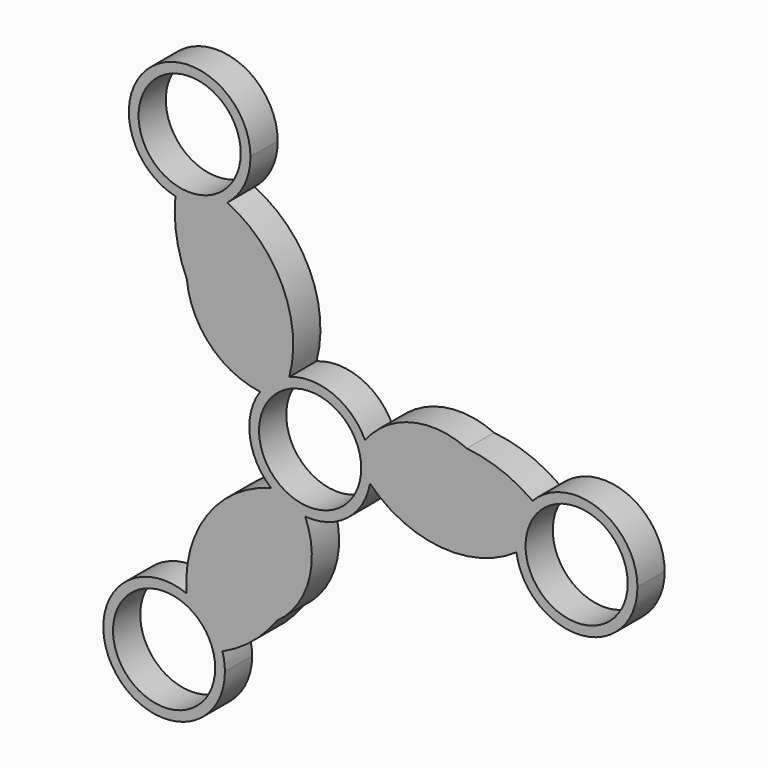
from build123d import *

# Parameters (mm, degrees)
F0_R     = 10.5
F1_DEPTH = 7


with BuildPart() as f1:
    # F0 (on Front) → F1 (new body)
    with BuildSketch(Plane.XZ):
        with BuildLine():
            ThreePointArc((11.295326, 5.354027), (12.195113, 2.743941), (12.5, 0))
            ThreePointArc((12.5, 0), (12.452429, -1.089502), (12.310078, -2.170712))
            ThreePointArc((12.310078, -2.170712), (26.882949, -8.961501), (42.415141, -4.81007))
            ThreePointArc((42.415141, -4.81007), (42.880339, 0.767824), (45.733166, 5.583494))
            ThreePointArc((45.733166, 5.583494), (39.308861, 9.012266), (32.218698, 10.672916))
            ThreePointArc((32.218698, 10.672916), (20.823945, 11.683957), (11.295326, 5.354027))
        make_face()
        with BuildLine():
            ThreePointArc((45.733166, 5.583494), (42.880339, 0.767824), (42.415141, -4.81007))
            ThreePointArc((42.415141, -4.81007), (55.678745, -15.501888), (67.28827, -3.033646))
            ThreePointArc((67.28827, -3.033646), (59.428378, 8.573223), (45.733166, 5.583494))
        make_face()
        with Locations((54.78827, -3.033646)):
            Circle(F0_R, mode=Mode.SUBTRACT)
        with BuildLine():
            ThreePointArc((-27.702031, 36.814337), (-22.105124, 36.751551), (-17.041928, 39.137625))
            ThreePointArc((-17.041928, 39.137625), (-13.523869, 43.501909), (-12.266921, 48.964857))
            ThreePointArc((-12.266921, 48.964857), (-32.49871, 58.786742), (-27.702031, 36.814337))
        make_face()
        with Locations((-24.766921, 48.964857)):
            Circle(F0_R, mode=Mode.SUBTRACT)
        with BuildLine():
            ThreePointArc((-10.284387, 7.105026), (-7.640688, 9.892921), (-4.275147, 11.746196))
            ThreePointArc((-4.275147, 11.746196), (-5.680587, 27.762067), (-17.041928, 39.137625))
            ThreePointArc((-17.041928, 39.137625), (-22.105124, 36.751551), (-27.702031, 36.814337))
            ThreePointArc((-27.702031, 36.814337), (-27.459282, 29.53634), (-25.352365, 22.565753))
            ThreePointArc((-25.352365, 22.565753), (-20.530576, 12.192087), (-10.284387, 7.105026))
        make_face()
        with BuildLine():
            ThreePointArc((12.310078, -2.170712), (12.452429, -1.089502), (12.5, 0))
            ThreePointArc((12.5, 0), (12.195113, 2.743941), (11.295326, 5.354027))
            ThreePointArc((11.295326, 5.354027), (4.747176, 11.563491), (-4.275147, 11.746196))
            ThreePointArc((-4.275147, 11.746196), (-7.640688, 9.892921), (-10.284387, 7.105026))
            ThreePointArc((-10.284387, 7.105026), (-12.387865, -1.67057), (-8.034931, -9.575484))
            ThreePointArc((-8.034931, -9.575484), (-4.747176, -11.563491), (-1.01094, -12.459053))
            ThreePointArc((-1.01094, -12.459053), (7.640688, -9.892921), (12.310078, -2.170712))
        make_face()
        Circle(F0_R, mode=Mode.SUBTRACT)
        with BuildLine():
            ThreePointArc((-6.866333, -33.238669), (-0.293369, -23.876044), (-1.01094, -12.459053))
            ThreePointArc((-1.01094, -12.459053), (-4.747176, -11.563491), (-8.034931, -9.575484))
            ThreePointArc((-8.034931, -9.575484), (-21.202362, -18.800566), (-25.373214, -34.327555))
            ThreePointArc((-25.373214, -34.327555), (-20.775215, -37.519374), (-18.031136, -42.397831))
            ThreePointArc((-18.031136, -42.397831), (-11.849579, -38.548606), (-6.866333, -33.238669))
        make_face()
        with BuildLine():
            ThreePointArc((-18.031136, -42.397831), (-20.775215, -37.519374), (-25.373214, -34.327555))
            ThreePointArc((-25.373214, -34.327555), (-40.373926, -52.936505), (-17.521349, -45.931211))
            ThreePointArc((-17.521349, -45.931211), (-17.649452, -44.146228), (-18.031136, -42.397831))
        make_face()
        with Locations((-30.021349, -45.931211)):
            Circle(F0_R, mode=Mode.SUBTRACT)
    extrude(amount=F1_DEPTH)


solid = f1.part
